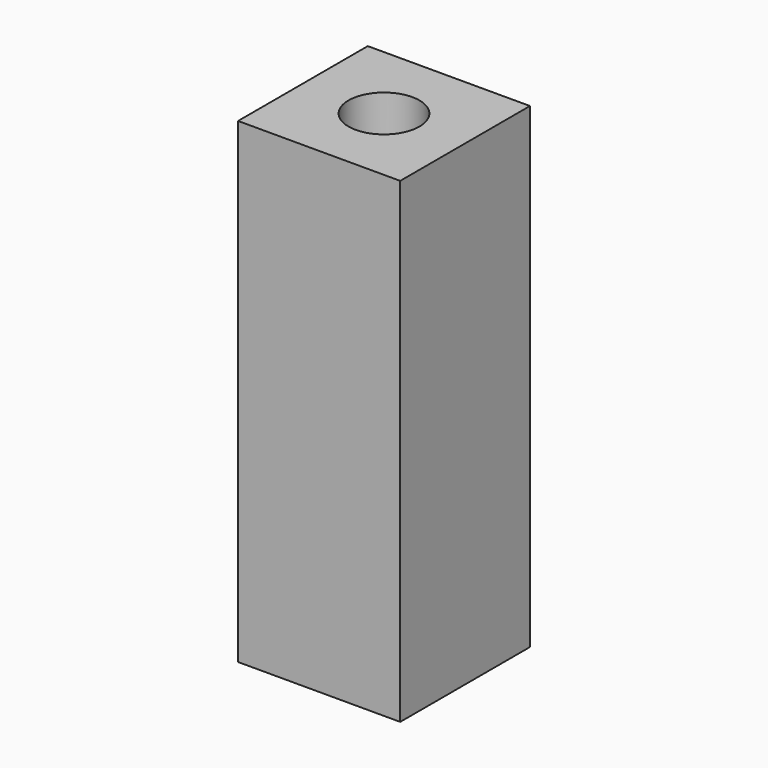
from build123d import *

# Parameters (mm, degrees)
F0_W     = 50.8
F0_H     = 50.8
F1_DEPTH = 74.6125
F3_D     = 22.225
F3_DEPTH = 57.15
F3_TIP   = 6.6770636289


with BuildPart() as f1:
    # F0 (on Top) → F1 (new body, symmetric)
    with BuildSketch(Plane.XY):
        Rectangle(F0_W, F0_H)
    extrude(amount=F1_DEPTH, both=True)

    # F3
    with Locations(Plane.XY.offset(74.6125)):
        with Locations((0, 0)):
            Hole(F3_D / 2, depth=F3_DEPTH)
            with Locations((0, 0, -(F3_DEPTH + F3_TIP / 2))):  # 118° drill point
                Cone(0, F3_D / 2, F3_TIP, mode=Mode.SUBTRACT)


solid = f1.part
